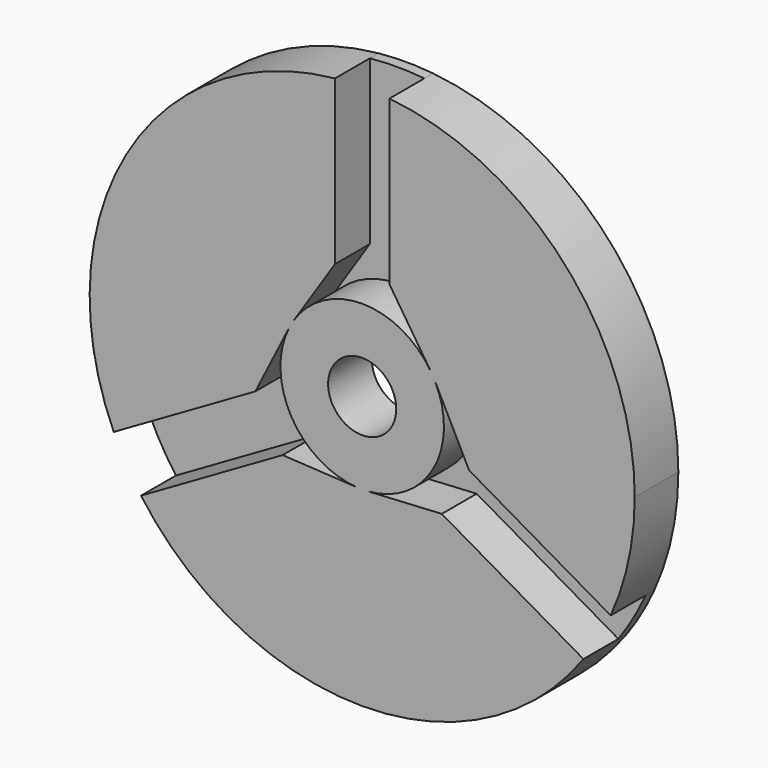
from build123d import *

# Parameters (mm, degrees)
F0_R     = 7.9375
F1_DEPTH = 12.7
F2_DEPTH = 2.54


with BuildPart() as f1:
    # F0 (on Front) → F1 (new body)
    with BuildSketch(Plane.XZ):
        with BuildLine():
            Line((-6.35, 25.081702), (-6.35, 63.181702))
            ThreePointArc((-6.35, 63.181702), (-54.994609, 31.746543), (-57.888679, -26.098867))
            Line((-57.888679, -26.098867), (-24.893111, -7.048867))
            Line((-24.893111, -7.048867), (-17.008142, 8.580537))
            ThreePointArc((-17.008142, 8.580537), (-16.499472, 9.522075), (-15.938734, 10.433564))
            Line((-15.938734, 10.433564), (-6.35, 25.081702))
        make_face()
        with BuildLine():
            ThreePointArc((-51.537296, -37.096591), (0.007982, -63.499999), (51.546621, -37.083633))
            Line((51.546621, -37.083633), (18.551053, -18.033633))
            Line((18.551053, -18.033633), (1.073108, -19.019751))
            ThreePointArc((1.073108, -19.019751), (0.006755, -19.049999), (-1.059619, -19.020508))
            Line((-1.059619, -19.020508), (-18.541728, -18.046591))
            Line((-18.541728, -18.046591), (-51.537296, -37.096591))
        make_face()
        with BuildLine():
            ThreePointArc((17.002052, 8.592597), (16.496095, 9.527925), (15.938734, 10.433564))
            ThreePointArc((15.938734, 10.433564), (0, 19.05), (-15.938734, 10.433564))
            ThreePointArc((-15.938734, 10.433564), (-16.499472, 9.522075), (-17.008142, 8.580537))
            ThreePointArc((-17.008142, 8.580537), (-16.494405, -9.530849), (-1.059619, -19.020508))
            ThreePointArc((-1.059619, -19.020508), (0.006755, -19.049999), (1.073108, -19.019751))
            ThreePointArc((1.073108, -19.019751), (16.50116, -9.519149), (17.002052, 8.592597))
        make_face()
        Circle(F0_R, mode=Mode.SUBTRACT)
        with BuildLine():
            ThreePointArc((57.895239, -26.084312), (62.083, -13.339834), (63.5, 0))
            ThreePointArc((63.5, 0), (47.09286, 42.597095), (6.35, 63.181702))
            Line((6.35, 63.181702), (6.35, 25.081702))
            Line((6.35, 25.081702), (15.938734, 10.433564))
            ThreePointArc((15.938734, 10.433564), (16.496095, 9.527925), (17.002052, 8.592597))
            Line((17.002052, 8.592597), (24.899671, -7.034312))
            Line((24.899671, -7.034312), (57.895239, -26.084312))
        make_face()
    extrude(amount=F1_DEPTH)

    # F0 (on Front) → F2 (join)
    with BuildSketch(Plane.XZ):
        with BuildLine():
            Line((-24.893111, -7.048867), (-57.888679, -26.098867))
            ThreePointArc((-57.888679, -26.098867), (-54.988621, -31.756913), (-51.537296, -37.096591))
            Line((-51.537296, -37.096591), (-18.541728, -18.046591))
            Line((-18.541728, -18.046591), (-1.059619, -19.020508))
            ThreePointArc((-1.059619, -19.020508), (-16.494405, -9.530849), (-17.008142, 8.580537))
            Line((-17.008142, 8.580537), (-24.893111, -7.048867))
        make_face()
        with BuildLine():
            ThreePointArc((51.546621, -37.083633), (54.996604, -31.743087), (57.895239, -26.084312))
            Line((57.895239, -26.084312), (24.899671, -7.034312))
            Line((24.899671, -7.034312), (17.002052, 8.592597))
            ThreePointArc((17.002052, 8.592597), (16.50116, -9.519149), (1.073108, -19.019751))
            Line((1.073108, -19.019751), (18.551053, -18.033633))
            Line((18.551053, -18.033633), (51.546621, -37.083633))
        make_face()
        with BuildLine():
            Line((6.35, 25.081702), (6.35, 63.181702))
            ThreePointArc((6.35, 63.181702), (0, 63.5), (-6.35, 63.181702))
            Line((-6.35, 63.181702), (-6.35, 25.081702))
            Line((-6.35, 25.081702), (-15.938734, 10.433564))
            ThreePointArc((-15.938734, 10.433564), (0, 19.05), (15.938734, 10.433564))
            Line((15.938734, 10.433564), (6.35, 25.081702))
        make_face()
    extrude(amount=F2_DEPTH)


solid = f1.part
